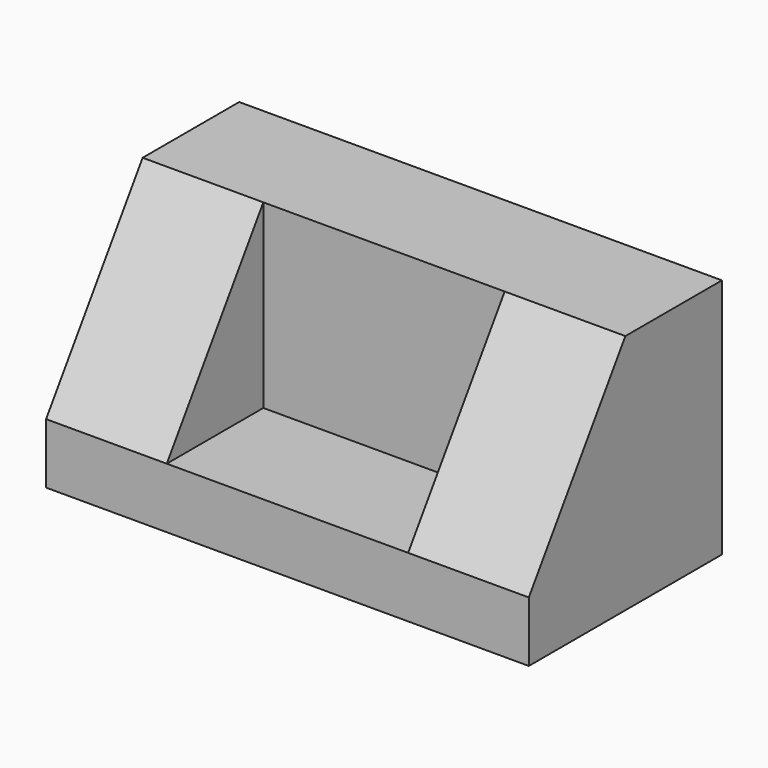
from build123d import *

# Parameters (mm, degrees)
F0_W     = 203.2
F0_H     = 101.6
F1_DEPTH = 101.6
F2_W     = 101.6
F2_H     = 50.8
F3_DEPTH = 76.2
F5_DEPTH = 203.201


with BuildPart() as f1:
    # F0 (on Top) → F1 (new body)
    with BuildSketch(Plane.XY):
        with Locations((-6.616482, 4.366976)):
            Rectangle(F0_W, F0_H)
    extrude(amount=F1_DEPTH)

    # F2 (on face) → F3 (cut)
    with BuildSketch(Plane.XY.offset(101.6)):
        with Locations((-6.616482, -21.033024)):
            Rectangle(F2_W, F2_H)
    extrude(amount=-F3_DEPTH, mode=Mode.SUBTRACT)

    # F4 (on face) → F5 (cut, through all)
    with BuildSketch(Plane.YZ.offset(94.983518)):
        Polygon((-46.433024, 25.4), (4.366976, 101.6), (-46.433024, 101.6), align=None)
    extrude(amount=-F5_DEPTH, mode=Mode.SUBTRACT)


solid = f1.part
